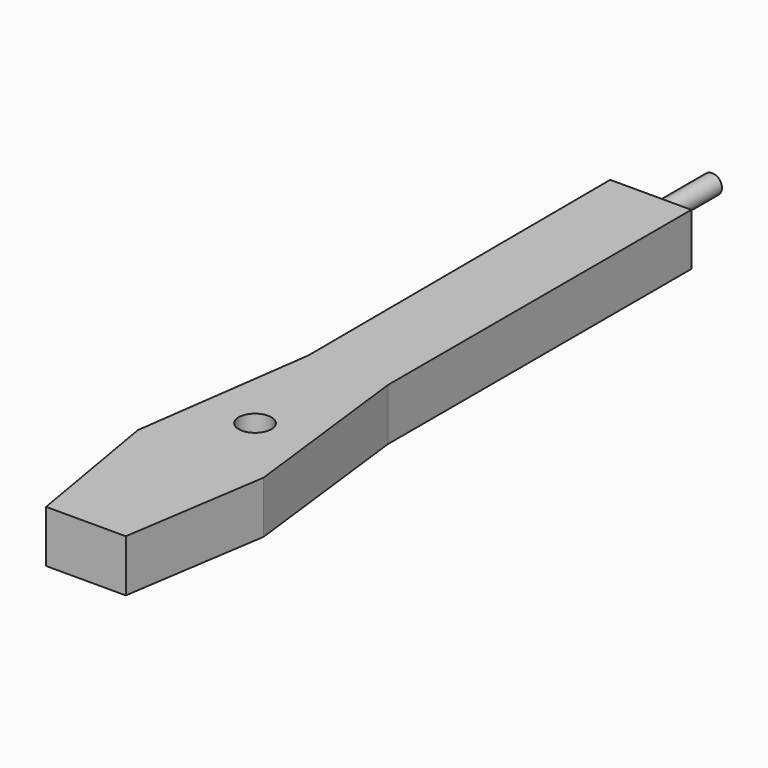
from build123d import *

# Parameters (mm, degrees)
F1_DEPTH = 10.16
F2_R     = 1.892747
F3_DEPTH = 14.986
F5_D     = 6.35


with BuildPart() as f1:
    # F0 (on Top) → F1 (new body)
    with BuildSketch(Plane.XY):
        Polygon((7.914659, 62.022142), (-7.914659, 62.022142), (-7.626853, -11.943939), (-12.51955, -47.344048), (-7.626853, -75.836815), (7.914659, -75.836815), (12.231744, -47.631852), (7.914659, -11.943939), align=None)
    extrude(amount=F1_DEPTH)

    # F2 (on face) → F3 (join)
    with BuildSketch(Plane(origin=(0, 62.022142, 0), x_dir=(-1, 0, 0), z_dir=(0, 1, 0))):
        with Locations((0, 5.900018)):
            Circle(F2_R)
    extrude(amount=F3_DEPTH)

    # F5 (through all)
    with Locations(Plane.XY.offset(10.16)):
        with Locations((0, -34.430573)):
            Hole(F5_D / 2)


solid = f1.part
